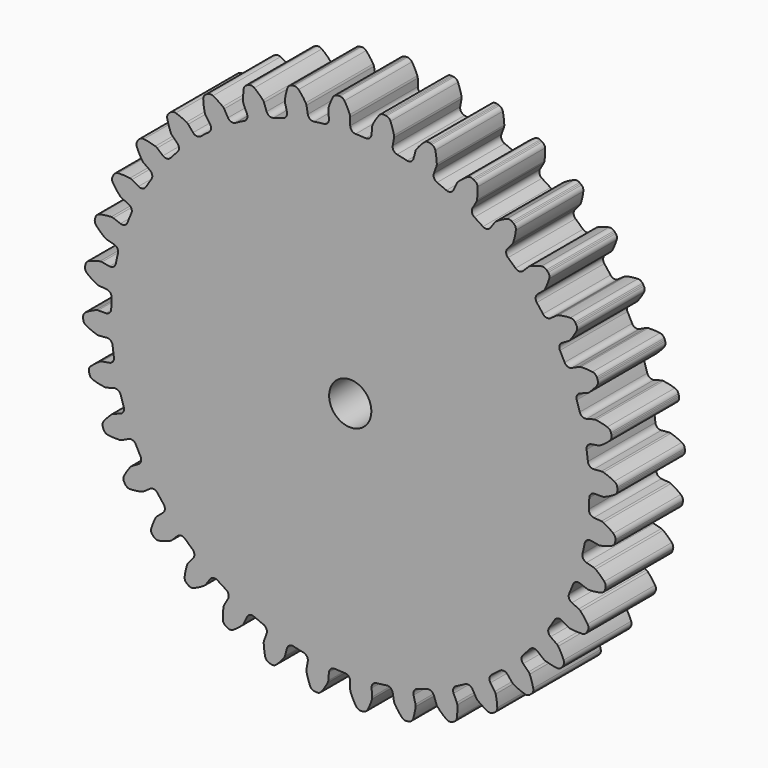
from build123d import *

# Parameters (mm, degrees)
F1_DEPTH = 12.7
F2_R     = 3.175
F3_DEPTH = 12.701


with BuildPart() as f1:
    # F0 (on Front) → F1 (new body)
    with BuildSketch(Plane.XZ):
        with BuildLine():
            ThreePointArc((-3.207294, 36.659542), (-3.391373, 36.064099), (-3.939281, 35.767057))
            ThreePointArc((-3.939281, 35.767057), (-4.696767, 35.675491), (-5.452142, 35.567885))
            ThreePointArc((-5.452142, 35.567885), (-6.058261, 35.712996), (-6.390179, 36.240507))
            Line((-6.390179, 36.240507), (-6.588756, 37.366694))
            ThreePointArc((-6.588756, 37.366694), (-6.631105, 37.519338), (-6.70183, 37.661082))
            ThreePointArc((-6.70183, 37.661082), (-7.204623, 38.387696), (-7.772587, 39.06459))
            ThreePointArc((-7.772587, 39.06459), (-8.1154, 39.287274), (-8.523019, 39.318177))
            Line((-8.523019, 39.318177), (-8.709346, 39.285323))
            Line((-8.709346, 39.285323), (-8.892101, 39.236354))
            ThreePointArc((-8.892101, 39.236354), (-9.248469, 39.036078), (-9.465053, 38.68938))
            ThreePointArc((-9.465053, 38.68938), (-9.693735, 37.835873), (-9.84234, 36.964848))
            ThreePointArc((-9.84234, 36.964848), (-9.846535, 36.806494), (-9.820406, 36.650254))
            Line((-9.820406, 36.650254), (-9.524431, 35.54566))
            ThreePointArc((-9.524431, 35.54566), (-9.602315, 34.927298), (-10.090319, 34.539626))
            ThreePointArc((-10.090319, 34.539626), (-10.820397, 34.317915), (-11.54561, 34.080774))
            ThreePointArc((-11.54561, 34.080774), (-12.167719, 34.118429), (-12.586196, 34.58029))
            Line((-12.586196, 34.58029), (-12.977317, 35.654884))
            ThreePointArc((-12.977317, 35.654884), (-13.045528, 35.797855), (-13.139793, 35.925165))
            ThreePointArc((-13.139793, 35.925165), (-13.761122, 36.553431), (-14.437999, 37.121416))
            ThreePointArc((-14.437999, 37.121416), (-14.814272, 37.281187), (-15.221065, 37.240839))
            Line((-15.221065, 37.240839), (-15.398857, 37.176128))
            Line((-15.398857, 37.176128), (-15.570331, 37.096168))
            ThreePointArc((-15.570331, 37.096168), (-15.886508, 36.837053), (-16.039598, 36.458012))
            ThreePointArc((-16.039598, 36.458012), (-16.116596, 35.577762), (-16.111691, 34.694164))
            ThreePointArc((-16.111691, 34.694164), (-16.088325, 34.537488), (-16.035462, 34.388159))
            Line((-16.035462, 34.388159), (-15.552173, 33.351742))
            ThreePointArc((-15.552173, 33.351742), (-15.521496, 32.72925), (-15.934767, 32.262726))
            ThreePointArc((-15.934767, 32.262726), (-16.615254, 31.917606), (-17.288271, 31.558137))
            ThreePointArc((-17.288271, 31.558137), (-17.907467, 31.487192), (-18.399788, 31.869367))
            Line((-18.399788, 31.869367), (-18.971568, 32.859719))
            ThreePointArc((-18.971568, 32.859719), (-19.06357, 32.988673), (-19.178509, 33.09768))
            ThreePointArc((-19.178509, 33.09768), (-19.899497, 33.608508), (-20.664719, 34.050326))
            ThreePointArc((-20.664719, 34.050326), (-21.06302, 34.142331), (-21.456627, 34.031957))
            Line((-21.456627, 34.031957), (-21.62048, 33.937356))
            Line((-21.62048, 33.937356), (-21.775465, 33.828834))
            ThreePointArc((-21.775465, 33.828834), (-22.041843, 33.518752), (-22.126788, 33.118886))
            ThreePointArc((-22.126788, 33.118886), (-22.049762, 32.238638), (-21.891497, 31.369316))
            ThreePointArc((-21.891497, 31.369316), (-21.841279, 31.219077), (-21.763288, 31.081197))
            Line((-21.763288, 31.081197), (-21.107369, 30.144448))
            ThreePointArc((-21.107369, 30.144448), (-20.969064, 29.536739), (-21.295046, 29.005539))
            ThreePointArc((-21.295046, 29.005539), (-21.905265, 28.547498), (-22.505636, 28.076621))
            ThreePointArc((-22.505636, 28.076621), (-23.103106, 27.899231), (-23.654311, 28.19011))
            Line((-23.654311, 28.19011), (-24.389377, 29.066128))
            ThreePointArc((-24.389377, 29.066128), (-24.502374, 29.177147), (-24.634496, 29.264538))
            ThreePointArc((-24.634496, 29.264538), (-25.433235, 29.642408), (-26.263553, 29.944634))
            ThreePointArc((-26.263553, 29.944634), (-26.671779, 29.966077), (-27.04024, 29.789031))
            Line((-27.04024, 29.789031), (-27.185177, 29.667414))
            Line((-27.185177, 29.667414), (-27.318962, 29.533629))
            ThreePointArc((-27.318962, 29.533629), (-27.527448, 29.182001), (-27.541666, 28.773459))
            ThreePointArc((-27.541666, 28.773459), (-27.312957, 27.91996), (-27.00614, 27.091327))
            ThreePointArc((-27.00614, 27.091327), (-26.930597, 26.952091), (-26.829848, 26.829848))
            Line((-26.829848, 26.829848), (-26.021229, 26.021229))
            ThreePointArc((-26.021229, 26.021229), (-25.779498, 25.44677), (-26.008285, 24.867034))
            ThreePointArc((-26.008285, 24.867034), (-26.529696, 24.309988), (-27.039179, 23.742011))
            ThreePointArc((-27.039179, 23.742011), (-27.596769, 23.463567), (-28.19011, 23.654311))
            Line((-28.19011, 23.654311), (-29.066128, 24.389377))
            ThreePointArc((-29.066128, 24.389377), (-29.196686, 24.479088), (-29.341977, 24.542209))
            ThreePointArc((-29.341977, 24.542209), (-30.194197, 24.775638), (-31.064382, 24.92909))
            ThreePointArc((-31.064382, 24.92909), (-31.47013, 24.879319), (-31.802249, 24.64098))
            Line((-31.802249, 24.64098), (-31.923865, 24.496043))
            Line((-31.923865, 24.496043), (-32.032387, 24.341058))
            ThreePointArc((-32.032387, 24.341058), (-32.176646, 23.958569), (-32.119705, 23.553765))
            ThreePointArc((-32.119705, 23.553765), (-31.746262, 22.752948), (-31.300216, 21.990182))
            ThreePointArc((-31.300216, 21.990182), (-31.201642, 21.866179), (-31.081197, 21.763288))
            Line((-31.081197, 21.763288), (-30.144448, 21.107369))
            ThreePointArc((-30.144448, 21.107369), (-29.806635, 20.583614), (-29.931276, 19.972956))
            ThreePointArc((-29.931276, 19.972956), (-30.348036, 19.333831), (-30.75115, 18.686013))
            ThreePointArc((-30.75115, 18.686013), (-31.251917, 18.314974), (-31.869367, 18.399788))
            Line((-31.869367, 18.399788), (-32.859719, 18.971568))
            ThreePointArc((-32.859719, 18.971568), (-33.003872, 19.037244), (-33.157916, 19.074177))
            ThreePointArc((-33.157916, 19.074177), (-34.037724, 19.156073), (-34.921335, 19.156088))
            ThreePointArc((-34.921335, 19.156088), (-35.312276, 19.036616), (-35.597962, 18.744226))
            Line((-35.597962, 18.744226), (-35.692563, 18.580372))
            Line((-35.692563, 18.580372), (-35.772523, 18.408897))
            ThreePointArc((-35.772523, 18.408897), (-35.848172, 18.007169), (-35.721803, 17.618402))
            ThreePointArc((-35.721803, 17.618402), (-35.214973, 16.894599), (-34.64325, 16.220876))
            ThreePointArc((-34.64325, 16.220876), (-34.524641, 16.115875), (-34.388159, 16.035462))
            Line((-34.388159, 16.035462), (-33.351742, 15.552173))
            ThreePointArc((-33.351742, 15.552173), (-32.928112, 15.095034), (-32.94482, 14.472011))
            ThreePointArc((-32.94482, 14.472011), (-33.244265, 13.770226), (-33.528763, 13.062249))
            ThreePointArc((-33.528763, 13.062249), (-33.957492, 12.60989), (-34.58029, 12.586196))
            Line((-34.58029, 12.586196), (-35.654884, 12.977317))
            ThreePointArc((-35.654884, 12.977317), (-35.808252, 13.016963), (-35.966369, 13.026586))
            ThreePointArc((-35.966369, 13.026586), (-36.847031, 12.954461), (-37.717221, 12.801038))
            ThreePointArc((-37.717221, 12.801038), (-38.081477, 12.615494), (-38.31205, 12.277937))
            Line((-38.31205, 12.277937), (-38.376761, 12.100146))
            Line((-38.376761, 12.100146), (-38.42573, 11.917391))
            ThreePointArc((-38.42573, 11.917391), (-38.43047, 11.50863), (-38.238512, 11.147713))
            ThreePointArc((-38.238512, 11.147713), (-37.613695, 10.522916), (-36.933667, 9.958707))
            ThreePointArc((-36.933667, 9.958707), (-36.798626, 9.875897), (-36.650254, 9.820406))
            Line((-36.650254, 9.820406), (-35.54566, 9.524431))
            ThreePointArc((-35.54566, 9.524431), (-35.049085, 9.1478), (-34.957353, 8.53134))
            ThreePointArc((-34.957353, 8.53134), (-35.130385, 7.788219), (-35.287621, 7.041596))
            ThreePointArc((-35.287621, 7.041596), (-35.631286, 6.521661), (-36.240507, 6.390179))
            Line((-36.240507, 6.390179), (-37.366694, 6.588756))
            ThreePointArc((-37.366694, 6.588756), (-37.524616, 6.601169), (-37.682002, 6.583188))
            ThreePointArc((-37.682002, 6.583188), (-38.536761, 6.359234), (-39.367089, 6.057034))
            ThreePointArc((-39.367089, 6.057034), (-39.693591, 5.811058), (-39.862045, 5.43859))
            Line((-39.862045, 5.43859), (-39.8949, 5.252263))
            Line((-39.8949, 5.252263), (-39.91139, 5.063782))
            ThreePointArc((-39.91139, 5.063782), (-39.845077, 4.660407), (-39.593363, 4.338306))
            ThreePointArc((-39.593363, 4.338306), (-38.869543, 3.8315), (-38.101873, 3.393948))
            ThreePointArc((-38.101873, 3.393948), (-37.954504, 3.335846), (-37.79875, 3.306962))
            Line((-37.79875, 3.306962), (-36.659542, 3.207294))
            ThreePointArc((-36.659542, 3.207294), (-36.10511, 2.922615), (-35.907724, 2.331449))
            ThreePointArc((-35.907724, 2.331449), (-35.949085, 1.569571), (-35.974283, 0.806987))
            ThreePointArc((-35.974283, 0.806987), (-36.222441, 0.235274), (-36.799576, 0))
            Line((-36.799576, 0), (-37.943135, 0))
            ThreePointArc((-37.943135, 0), (-38.100814, -0.015199), (-38.252686, -0.060236))
            ThreePointArc((-38.252686, -0.060236), (-39.05557, -0.429216), (-39.820807, -0.871009))
            ThreePointArc((-39.820807, -0.871009), (-40.099636, -1.169945), (-40.200853, -1.566006))
            Line((-40.200853, -1.566006), (-40.200853, -1.755207))
            Line((-40.200853, -1.755207), (-40.184363, -1.943689))
            ThreePointArc((-40.184363, -1.943689), (-40.049012, -2.32942), (-39.74519, -2.602918))
            ThreePointArc((-39.74519, -2.602918), (-38.94436, -2.976335), (-38.112373, -3.273934))
            ThreePointArc((-38.112373, -3.273934), (-37.957153, -3.305564), (-37.79875, -3.306962))
            Line((-37.79875, -3.306962), (-36.659542, -3.207294))
            ThreePointArc((-36.659542, -3.207294), (-36.064099, -3.391373), (-35.767057, -3.939281))
            ThreePointArc((-35.767057, -3.939281), (-35.675491, -4.696767), (-35.567885, -5.452142))
            ThreePointArc((-35.567885, -5.452142), (-35.712996, -6.058261), (-36.240507, -6.390179))
            Line((-36.240507, -6.390179), (-37.366694, -6.588756))
            ThreePointArc((-37.366694, -6.588756), (-37.519338, -6.631105), (-37.661082, -6.70183))
            ThreePointArc((-37.661082, -6.70183), (-38.387696, -7.204623), (-39.06459, -7.772587))
            ThreePointArc((-39.06459, -7.772587), (-39.287274, -8.1154), (-39.318177, -8.523019))
            Line((-39.318177, -8.523019), (-39.285323, -8.709346))
            Line((-39.285323, -8.709346), (-39.236354, -8.892101))
            ThreePointArc((-39.236354, -8.892101), (-39.036078, -9.248469), (-38.68938, -9.465053))
            ThreePointArc((-38.68938, -9.465053), (-37.835873, -9.693735), (-36.964848, -9.84234))
            ThreePointArc((-36.964848, -9.84234), (-36.806494, -9.846535), (-36.650254, -9.820406))
            Line((-36.650254, -9.820406), (-35.54566, -9.524431))
            ThreePointArc((-35.54566, -9.524431), (-34.927298, -9.602315), (-34.539626, -10.090319))
            ThreePointArc((-34.539626, -10.090319), (-34.317915, -10.820397), (-34.080774, -11.54561))
            ThreePointArc((-34.080774, -11.54561), (-34.118429, -12.167719), (-34.58029, -12.586196))
            Line((-34.58029, -12.586196), (-35.654884, -12.977317))
            ThreePointArc((-35.654884, -12.977317), (-35.797855, -13.045528), (-35.925165, -13.139793))
            ThreePointArc((-35.925165, -13.139793), (-36.553431, -13.761122), (-37.121416, -14.437999))
            ThreePointArc((-37.121416, -14.437999), (-37.281187, -14.814272), (-37.240839, -15.221065))
            Line((-37.240839, -15.221065), (-37.176128, -15.398857))
            Line((-37.176128, -15.398857), (-37.096168, -15.570331))
            ThreePointArc((-37.096168, -15.570331), (-36.837053, -15.886508), (-36.458012, -16.039598))
            ThreePointArc((-36.458012, -16.039598), (-35.577762, -16.116596), (-34.694164, -16.111691))
            ThreePointArc((-34.694164, -16.111691), (-34.537488, -16.088325), (-34.388159, -16.035462))
            Line((-34.388159, -16.035462), (-33.351742, -15.552173))
            ThreePointArc((-33.351742, -15.552173), (-32.72925, -15.521496), (-32.262726, -15.934767))
            ThreePointArc((-32.262726, -15.934767), (-31.917606, -16.615254), (-31.558137, -17.288271))
            ThreePointArc((-31.558137, -17.288271), (-31.487192, -17.907467), (-31.869367, -18.399788))
            Line((-31.869367, -18.399788), (-32.859719, -18.971568))
            ThreePointArc((-32.859719, -18.971568), (-32.988673, -19.06357), (-33.09768, -19.178509))
            ThreePointArc((-33.09768, -19.178509), (-33.608508, -19.899497), (-34.050326, -20.664719))
            ThreePointArc((-34.050326, -20.664719), (-34.142331, -21.06302), (-34.031957, -21.456627))
            Line((-34.031957, -21.456627), (-33.937356, -21.62048))
            Line((-33.937356, -21.62048), (-33.828834, -21.775465))
            ThreePointArc((-33.828834, -21.775465), (-33.518752, -22.041843), (-33.118886, -22.126788))
            ThreePointArc((-33.118886, -22.126788), (-32.238638, -22.049762), (-31.369316, -21.891497))
            ThreePointArc((-31.369316, -21.891497), (-31.219077, -21.841279), (-31.081197, -21.763288))
            Line((-31.081197, -21.763288), (-30.144448, -21.107369))
            ThreePointArc((-30.144448, -21.107369), (-29.536739, -20.969064), (-29.005539, -21.295046))
            ThreePointArc((-29.005539, -21.295046), (-28.547498, -21.905265), (-28.076621, -22.505636))
            ThreePointArc((-28.076621, -22.505636), (-27.899231, -23.103106), (-28.19011, -23.654311))
            Line((-28.19011, -23.654311), (-29.066128, -24.389377))
            ThreePointArc((-29.066128, -24.389377), (-29.177147, -24.502374), (-29.264538, -24.634496))
            ThreePointArc((-29.264538, -24.634496), (-29.642408, -25.433235), (-29.944634, -26.263553))
            ThreePointArc((-29.944634, -26.263553), (-29.966077, -26.671779), (-29.789031, -27.04024))
            Line((-29.789031, -27.04024), (-29.667414, -27.185177))
            Line((-29.667414, -27.185177), (-29.533629, -27.318962))
            ThreePointArc((-29.533629, -27.318962), (-29.182001, -27.527448), (-28.773459, -27.541666))
            ThreePointArc((-28.773459, -27.541666), (-27.91996, -27.312957), (-27.091327, -27.00614))
            ThreePointArc((-27.091327, -27.00614), (-26.952091, -26.930597), (-26.829848, -26.829848))
            Line((-26.829848, -26.829848), (-26.021229, -26.021229))
            ThreePointArc((-26.021229, -26.021229), (-25.44677, -25.779498), (-24.867034, -26.008285))
            ThreePointArc((-24.867034, -26.008285), (-24.309988, -26.529696), (-23.742011, -27.039179))
            ThreePointArc((-23.742011, -27.039179), (-23.463567, -27.596769), (-23.654311, -28.19011))
            Line((-23.654311, -28.19011), (-24.389377, -29.066128))
            ThreePointArc((-24.389377, -29.066128), (-24.479088, -29.196686), (-24.542209, -29.341977))
            ThreePointArc((-24.542209, -29.341977), (-24.775638, -30.194197), (-24.92909, -31.064382))
            ThreePointArc((-24.92909, -31.064382), (-24.879319, -31.47013), (-24.64098, -31.802249))
            Line((-24.64098, -31.802249), (-24.496043, -31.923865))
            Line((-24.496043, -31.923865), (-24.341058, -32.032387))
            ThreePointArc((-24.341058, -32.032387), (-23.958569, -32.176646), (-23.553765, -32.119705))
            ThreePointArc((-23.553765, -32.119705), (-22.752948, -31.746262), (-21.990182, -31.300216))
            ThreePointArc((-21.990182, -31.300216), (-21.866179, -31.201642), (-21.763288, -31.081197))
            Line((-21.763288, -31.081197), (-21.107369, -30.144448))
            ThreePointArc((-21.107369, -30.144448), (-20.583614, -29.806635), (-19.972956, -29.931276))
            ThreePointArc((-19.972956, -29.931276), (-19.333831, -30.348036), (-18.686013, -30.75115))
            ThreePointArc((-18.686013, -30.75115), (-18.314974, -31.251917), (-18.399788, -31.869367))
            Line((-18.399788, -31.869367), (-18.971568, -32.859719))
            ThreePointArc((-18.971568, -32.859719), (-19.037244, -33.003872), (-19.074177, -33.157916))
            ThreePointArc((-19.074177, -33.157916), (-19.156073, -34.037724), (-19.156088, -34.921335))
            ThreePointArc((-19.156088, -34.921335), (-19.036616, -35.312276), (-18.744226, -35.597962))
            Line((-18.744226, -35.597962), (-18.580372, -35.692563))
            Line((-18.580372, -35.692563), (-18.408897, -35.772523))
            ThreePointArc((-18.408897, -35.772523), (-18.007169, -35.848172), (-17.618402, -35.721803))
            ThreePointArc((-17.618402, -35.721803), (-16.894599, -35.214973), (-16.220876, -34.64325))
            ThreePointArc((-16.220876, -34.64325), (-16.115875, -34.524641), (-16.035462, -34.388159))
            Line((-16.035462, -34.388159), (-15.552173, -33.351742))
            ThreePointArc((-15.552173, -33.351742), (-15.095034, -32.928112), (-14.472011, -32.94482))
            ThreePointArc((-14.472011, -32.94482), (-13.770226, -33.244265), (-13.062249, -33.528763))
            ThreePointArc((-13.062249, -33.528763), (-12.60989, -33.957492), (-12.586196, -34.58029))
            Line((-12.586196, -34.58029), (-12.977317, -35.654884))
            ThreePointArc((-12.977317, -35.654884), (-13.016963, -35.808252), (-13.026586, -35.966369))
            ThreePointArc((-13.026586, -35.966369), (-12.954461, -36.847031), (-12.801038, -37.717221))
            ThreePointArc((-12.801038, -37.717221), (-12.615494, -38.081477), (-12.277937, -38.31205))
            Line((-12.277937, -38.31205), (-12.100146, -38.376761))
            Line((-12.100146, -38.376761), (-11.917391, -38.42573))
            ThreePointArc((-11.917391, -38.42573), (-11.50863, -38.43047), (-11.147713, -38.238512))
            ThreePointArc((-11.147713, -38.238512), (-10.522916, -37.613695), (-9.958707, -36.933667))
            ThreePointArc((-9.958707, -36.933667), (-9.875897, -36.798626), (-9.820406, -36.650254))
            Line((-9.820406, -36.650254), (-9.524431, -35.54566))
            ThreePointArc((-9.524431, -35.54566), (-9.1478, -35.049085), (-8.53134, -34.957353))
            ThreePointArc((-8.53134, -34.957353), (-7.788219, -35.130385), (-7.041596, -35.287621))
            ThreePointArc((-7.041596, -35.287621), (-6.521661, -35.631286), (-6.390179, -36.240507))
            Line((-6.390179, -36.240507), (-6.588756, -37.366694))
            ThreePointArc((-6.588756, -37.366694), (-6.601169, -37.524616), (-6.583188, -37.682002))
            ThreePointArc((-6.583188, -37.682002), (-6.359234, -38.536761), (-6.057034, -39.367089))
            ThreePointArc((-6.057034, -39.367089), (-5.811058, -39.693591), (-5.43859, -39.862045))
            Line((-5.43859, -39.862045), (-5.252263, -39.8949))
            Line((-5.252263, -39.8949), (-5.063782, -39.91139))
            ThreePointArc((-5.063782, -39.91139), (-4.660407, -39.845077), (-4.338306, -39.593363))
            ThreePointArc((-4.338306, -39.593363), (-3.8315, -38.869543), (-3.393948, -38.101873))
            ThreePointArc((-3.393948, -38.101873), (-3.335846, -37.954504), (-3.306962, -37.79875))
            Line((-3.306962, -37.79875), (-3.207294, -36.659542))
            ThreePointArc((-3.207294, -36.659542), (-2.922615, -36.10511), (-2.331449, -35.907724))
            ThreePointArc((-2.331449, -35.907724), (-1.569571, -35.949085), (-0.806987, -35.974283))
            ThreePointArc((-0.806987, -35.974283), (-0.235274, -36.222441), (0, -36.799576))
            Line((0, -36.799576), (0, -37.943135))
            ThreePointArc((0, -37.943135), (0.015199, -38.100814), (0.060236, -38.252686))
            ThreePointArc((0.060236, -38.252686), (0.429216, -39.05557), (0.871009, -39.820807))
            ThreePointArc((0.871009, -39.820807), (1.169945, -40.099636), (1.566006, -40.200853))
            Line((1.566006, -40.200853), (1.755207, -40.200853))
            Line((1.755207, -40.200853), (1.943689, -40.184363))
            ThreePointArc((1.943689, -40.184363), (2.32942, -40.049012), (2.602918, -39.74519))
            ThreePointArc((2.602918, -39.74519), (2.976335, -38.94436), (3.273934, -38.112373))
            ThreePointArc((3.273934, -38.112373), (3.305564, -37.957153), (3.306962, -37.79875))
            Line((3.306962, -37.79875), (3.207294, -36.659542))
            ThreePointArc((3.207294, -36.659542), (3.391373, -36.064099), (3.939281, -35.767057))
            ThreePointArc((3.939281, -35.767057), (4.696767, -35.675491), (5.452142, -35.567885))
            ThreePointArc((5.452142, -35.567885), (6.058261, -35.712996), (6.390179, -36.240507))
            Line((6.390179, -36.240507), (6.588756, -37.366694))
            ThreePointArc((6.588756, -37.366694), (6.631105, -37.519338), (6.70183, -37.661082))
            ThreePointArc((6.70183, -37.661082), (7.204623, -38.387696), (7.772587, -39.06459))
            ThreePointArc((7.772587, -39.06459), (8.1154, -39.287274), (8.523019, -39.318177))
            Line((8.523019, -39.318177), (8.709346, -39.285323))
            Line((8.709346, -39.285323), (8.892101, -39.236354))
            ThreePointArc((8.892101, -39.236354), (9.248469, -39.036078), (9.465053, -38.68938))
            ThreePointArc((9.465053, -38.68938), (9.693735, -37.835873), (9.84234, -36.964848))
            ThreePointArc((9.84234, -36.964848), (9.846535, -36.806494), (9.820406, -36.650254))
            Line((9.820406, -36.650254), (9.524431, -35.54566))
            ThreePointArc((9.524431, -35.54566), (9.602315, -34.927298), (10.090319, -34.539626))
            ThreePointArc((10.090319, -34.539626), (10.820397, -34.317915), (11.54561, -34.080774))
            ThreePointArc((11.54561, -34.080774), (12.167719, -34.118429), (12.586196, -34.58029))
            Line((12.586196, -34.58029), (12.977317, -35.654884))
            ThreePointArc((12.977317, -35.654884), (13.045528, -35.797855), (13.139793, -35.925165))
            ThreePointArc((13.139793, -35.925165), (13.761122, -36.553431), (14.437999, -37.121416))
            ThreePointArc((14.437999, -37.121416), (14.814272, -37.281187), (15.221065, -37.240839))
            Line((15.221065, -37.240839), (15.398857, -37.176128))
            Line((15.398857, -37.176128), (15.570331, -37.096168))
            ThreePointArc((15.570331, -37.096168), (15.886508, -36.837053), (16.039598, -36.458012))
            ThreePointArc((16.039598, -36.458012), (16.116596, -35.577762), (16.111691, -34.694164))
            ThreePointArc((16.111691, -34.694164), (16.088325, -34.537488), (16.035462, -34.388159))
            Line((16.035462, -34.388159), (15.552173, -33.351742))
            ThreePointArc((15.552173, -33.351742), (15.521496, -32.72925), (15.934767, -32.262726))
            ThreePointArc((15.934767, -32.262726), (16.615254, -31.917606), (17.288271, -31.558137))
            ThreePointArc((17.288271, -31.558137), (17.907467, -31.487192), (18.399788, -31.869367))
            Line((18.399788, -31.869367), (18.971568, -32.859719))
            ThreePointArc((18.971568, -32.859719), (19.06357, -32.988673), (19.178509, -33.09768))
            ThreePointArc((19.178509, -33.09768), (19.899497, -33.608508), (20.664719, -34.050326))
            ThreePointArc((20.664719, -34.050326), (21.06302, -34.142331), (21.456627, -34.031957))
            Line((21.456627, -34.031957), (21.62048, -33.937356))
            Line((21.62048, -33.937356), (21.775465, -33.828834))
            ThreePointArc((21.775465, -33.828834), (22.041843, -33.518752), (22.126788, -33.118886))
            ThreePointArc((22.126788, -33.118886), (22.049762, -32.238638), (21.891497, -31.369316))
            ThreePointArc((21.891497, -31.369316), (21.841279, -31.219077), (21.763288, -31.081197))
            Line((21.763288, -31.081197), (21.107369, -30.144448))
            ThreePointArc((21.107369, -30.144448), (20.969064, -29.536739), (21.295046, -29.005539))
            ThreePointArc((21.295046, -29.005539), (21.905265, -28.547498), (22.505636, -28.076621))
            ThreePointArc((22.505636, -28.076621), (23.103106, -27.899231), (23.654311, -28.19011))
            Line((23.654311, -28.19011), (24.389377, -29.066128))
            ThreePointArc((24.389377, -29.066128), (24.502374, -29.177147), (24.634496, -29.264538))
            ThreePointArc((24.634496, -29.264538), (25.433235, -29.642408), (26.263553, -29.944634))
            ThreePointArc((26.263553, -29.944634), (26.671779, -29.966077), (27.04024, -29.789031))
            Line((27.04024, -29.789031), (27.185177, -29.667414))
            Line((27.185177, -29.667414), (27.318962, -29.533629))
            ThreePointArc((27.318962, -29.533629), (27.527448, -29.182001), (27.541666, -28.773459))
            ThreePointArc((27.541666, -28.773459), (27.312957, -27.91996), (27.00614, -27.091327))
            ThreePointArc((27.00614, -27.091327), (26.930597, -26.952091), (26.829848, -26.829848))
            Line((26.829848, -26.829848), (26.021229, -26.021229))
            ThreePointArc((26.021229, -26.021229), (25.779498, -25.44677), (26.008285, -24.867034))
            ThreePointArc((26.008285, -24.867034), (26.529696, -24.309988), (27.039179, -23.742011))
            ThreePointArc((27.039179, -23.742011), (27.596769, -23.463567), (28.19011, -23.654311))
            Line((28.19011, -23.654311), (29.066128, -24.389377))
            ThreePointArc((29.066128, -24.389377), (29.196686, -24.479088), (29.341977, -24.542209))
            ThreePointArc((29.341977, -24.542209), (30.194197, -24.775638), (31.064382, -24.92909))
            ThreePointArc((31.064382, -24.92909), (31.47013, -24.879319), (31.802249, -24.64098))
            Line((31.802249, -24.64098), (31.923865, -24.496043))
            Line((31.923865, -24.496043), (32.032387, -24.341058))
            ThreePointArc((32.032387, -24.341058), (32.176646, -23.958569), (32.119705, -23.553765))
            ThreePointArc((32.119705, -23.553765), (31.746262, -22.752948), (31.300216, -21.990182))
            ThreePointArc((31.300216, -21.990182), (31.201642, -21.866179), (31.081197, -21.763288))
            Line((31.081197, -21.763288), (30.144448, -21.107369))
            ThreePointArc((30.144448, -21.107369), (29.806635, -20.583614), (29.931276, -19.972956))
            ThreePointArc((29.931276, -19.972956), (30.348036, -19.333831), (30.75115, -18.686013))
            ThreePointArc((30.75115, -18.686013), (31.251917, -18.314974), (31.869367, -18.399788))
            Line((31.869367, -18.399788), (32.859719, -18.971568))
            ThreePointArc((32.859719, -18.971568), (33.003872, -19.037244), (33.157916, -19.074177))
            ThreePointArc((33.157916, -19.074177), (34.037724, -19.156073), (34.921335, -19.156088))
            ThreePointArc((34.921335, -19.156088), (35.312276, -19.036616), (35.597962, -18.744226))
            Line((35.597962, -18.744226), (35.692563, -18.580372))
            Line((35.692563, -18.580372), (35.772523, -18.408897))
            ThreePointArc((35.772523, -18.408897), (35.848172, -18.007169), (35.721803, -17.618402))
            ThreePointArc((35.721803, -17.618402), (35.214973, -16.894599), (34.64325, -16.220876))
            ThreePointArc((34.64325, -16.220876), (34.524641, -16.115875), (34.388159, -16.035462))
            Line((34.388159, -16.035462), (33.351742, -15.552173))
            ThreePointArc((33.351742, -15.552173), (32.928112, -15.095034), (32.94482, -14.472011))
            ThreePointArc((32.94482, -14.472011), (33.244265, -13.770226), (33.528763, -13.062249))
            ThreePointArc((33.528763, -13.062249), (33.957492, -12.60989), (34.58029, -12.586196))
            Line((34.58029, -12.586196), (35.654884, -12.977317))
            ThreePointArc((35.654884, -12.977317), (35.808252, -13.016963), (35.966369, -13.026586))
            ThreePointArc((35.966369, -13.026586), (36.847031, -12.954461), (37.717221, -12.801038))
            ThreePointArc((37.717221, -12.801038), (38.081477, -12.615494), (38.31205, -12.277937))
            Line((38.31205, -12.277937), (38.376761, -12.100146))
            Line((38.376761, -12.100146), (38.42573, -11.917391))
            ThreePointArc((38.42573, -11.917391), (38.43047, -11.50863), (38.238512, -11.147713))
            ThreePointArc((38.238512, -11.147713), (37.613695, -10.522916), (36.933667, -9.958707))
            ThreePointArc((36.933667, -9.958707), (36.798626, -9.875897), (36.650254, -9.820406))
            Line((36.650254, -9.820406), (35.54566, -9.524431))
            ThreePointArc((35.54566, -9.524431), (35.049085, -9.1478), (34.957353, -8.53134))
            ThreePointArc((34.957353, -8.53134), (35.130385, -7.788219), (35.287621, -7.041596))
            ThreePointArc((35.287621, -7.041596), (35.631286, -6.521661), (36.240507, -6.390179))
            Line((36.240507, -6.390179), (37.366694, -6.588756))
            ThreePointArc((37.366694, -6.588756), (37.524616, -6.601169), (37.682002, -6.583188))
            ThreePointArc((37.682002, -6.583188), (38.536761, -6.359234), (39.367089, -6.057034))
            ThreePointArc((39.367089, -6.057034), (39.693591, -5.811058), (39.862045, -5.43859))
            Line((39.862045, -5.43859), (39.8949, -5.252263))
            Line((39.8949, -5.252263), (39.91139, -5.063782))
            ThreePointArc((39.91139, -5.063782), (39.845077, -4.660407), (39.593363, -4.338306))
            ThreePointArc((39.593363, -4.338306), (38.869543, -3.8315), (38.101873, -3.393948))
            ThreePointArc((38.101873, -3.393948), (37.954504, -3.335846), (37.79875, -3.306962))
            Line((37.79875, -3.306962), (36.659542, -3.207294))
            ThreePointArc((36.659542, -3.207294), (36.10511, -2.922615), (35.907724, -2.331449))
            ThreePointArc((35.907724, -2.331449), (35.949085, -1.569571), (35.974283, -0.806987))
            ThreePointArc((35.974283, -0.806987), (36.222441, -0.235274), (36.799576, 0))
            Line((36.799576, 0), (37.943135, 0))
            ThreePointArc((37.943135, 0), (38.100814, 0.015199), (38.252686, 0.060236))
            ThreePointArc((38.252686, 0.060236), (39.05557, 0.429216), (39.820807, 0.871009))
            ThreePointArc((39.820807, 0.871009), (40.099636, 1.169945), (40.200853, 1.566006))
            Line((40.200853, 1.566006), (40.200853, 1.755207))
            Line((40.200853, 1.755207), (40.184363, 1.943689))
            ThreePointArc((40.184363, 1.943689), (40.049012, 2.32942), (39.74519, 2.602918))
            ThreePointArc((39.74519, 2.602918), (38.94436, 2.976335), (38.112373, 3.273934))
            ThreePointArc((38.112373, 3.273934), (37.957153, 3.305564), (37.79875, 3.306962))
            Line((37.79875, 3.306962), (36.659542, 3.207294))
            ThreePointArc((36.659542, 3.207294), (36.064099, 3.391373), (35.767057, 3.939281))
            ThreePointArc((35.767057, 3.939281), (35.675491, 4.696767), (35.567885, 5.452142))
            ThreePointArc((35.567885, 5.452142), (35.712996, 6.058261), (36.240507, 6.390179))
            Line((36.240507, 6.390179), (37.366694, 6.588756))
            ThreePointArc((37.366694, 6.588756), (37.519338, 6.631105), (37.661082, 6.70183))
            ThreePointArc((37.661082, 6.70183), (38.387696, 7.204623), (39.06459, 7.772587))
            ThreePointArc((39.06459, 7.772587), (39.287274, 8.1154), (39.318177, 8.523019))
            Line((39.318177, 8.523019), (39.285323, 8.709346))
            Line((39.285323, 8.709346), (39.236354, 8.892101))
            ThreePointArc((39.236354, 8.892101), (39.036078, 9.248469), (38.68938, 9.465053))
            ThreePointArc((38.68938, 9.465053), (37.835873, 9.693735), (36.964848, 9.84234))
            ThreePointArc((36.964848, 9.84234), (36.806494, 9.846535), (36.650254, 9.820406))
            Line((36.650254, 9.820406), (35.54566, 9.524431))
            ThreePointArc((35.54566, 9.524431), (34.927298, 9.602315), (34.539626, 10.090319))
            ThreePointArc((34.539626, 10.090319), (34.317915, 10.820397), (34.080774, 11.54561))
            ThreePointArc((34.080774, 11.54561), (34.118429, 12.167719), (34.58029, 12.586196))
            Line((34.58029, 12.586196), (35.654884, 12.977317))
            ThreePointArc((35.654884, 12.977317), (35.797855, 13.045528), (35.925165, 13.139793))
            ThreePointArc((35.925165, 13.139793), (36.553431, 13.761122), (37.121416, 14.437999))
            ThreePointArc((37.121416, 14.437999), (37.281187, 14.814272), (37.240839, 15.221065))
            Line((37.240839, 15.221065), (37.176128, 15.398857))
            Line((37.176128, 15.398857), (37.096168, 15.570331))
            ThreePointArc((37.096168, 15.570331), (36.837053, 15.886508), (36.458012, 16.039598))
            ThreePointArc((36.458012, 16.039598), (35.577762, 16.116596), (34.694164, 16.111691))
            ThreePointArc((34.694164, 16.111691), (34.537488, 16.088325), (34.388159, 16.035462))
            Line((34.388159, 16.035462), (33.351742, 15.552173))
            ThreePointArc((33.351742, 15.552173), (32.72925, 15.521496), (32.262726, 15.934767))
            ThreePointArc((32.262726, 15.934767), (31.917606, 16.615254), (31.558137, 17.288271))
            ThreePointArc((31.558137, 17.288271), (31.487192, 17.907467), (31.869367, 18.399788))
            Line((31.869367, 18.399788), (32.859719, 18.971568))
            ThreePointArc((32.859719, 18.971568), (32.988673, 19.06357), (33.09768, 19.178509))
            ThreePointArc((33.09768, 19.178509), (33.608508, 19.899497), (34.050326, 20.664719))
            ThreePointArc((34.050326, 20.664719), (34.142331, 21.06302), (34.031957, 21.456627))
            Line((34.031957, 21.456627), (33.937356, 21.62048))
            Line((33.937356, 21.62048), (33.828834, 21.775465))
            ThreePointArc((33.828834, 21.775465), (33.518752, 22.041843), (33.118886, 22.126788))
            ThreePointArc((33.118886, 22.126788), (32.238638, 22.049762), (31.369316, 21.891497))
            ThreePointArc((31.369316, 21.891497), (31.219077, 21.841279), (31.081197, 21.763288))
            Line((31.081197, 21.763288), (30.144448, 21.107369))
            ThreePointArc((30.144448, 21.107369), (29.536739, 20.969064), (29.005539, 21.295046))
            ThreePointArc((29.005539, 21.295046), (28.547498, 21.905265), (28.076621, 22.505636))
            ThreePointArc((28.076621, 22.505636), (27.899231, 23.103106), (28.19011, 23.654311))
            Line((28.19011, 23.654311), (29.066128, 24.389377))
            ThreePointArc((29.066128, 24.389377), (29.177147, 24.502374), (29.264538, 24.634496))
            ThreePointArc((29.264538, 24.634496), (29.642408, 25.433235), (29.944634, 26.263553))
            ThreePointArc((29.944634, 26.263553), (29.966077, 26.671779), (29.789031, 27.04024))
            Line((29.789031, 27.04024), (29.667414, 27.185177))
            Line((29.667414, 27.185177), (29.533629, 27.318962))
            ThreePointArc((29.533629, 27.318962), (29.182001, 27.527448), (28.773459, 27.541666))
            ThreePointArc((28.773459, 27.541666), (27.91996, 27.312957), (27.091327, 27.00614))
            ThreePointArc((27.091327, 27.00614), (26.952091, 26.930597), (26.829848, 26.829848))
            Line((26.829848, 26.829848), (26.021229, 26.021229))
            ThreePointArc((26.021229, 26.021229), (25.44677, 25.779498), (24.867034, 26.008285))
            ThreePointArc((24.867034, 26.008285), (24.309988, 26.529696), (23.742011, 27.039179))
            ThreePointArc((23.742011, 27.039179), (23.463567, 27.596769), (23.654311, 28.19011))
            Line((23.654311, 28.19011), (24.389377, 29.066128))
            ThreePointArc((24.389377, 29.066128), (24.479088, 29.196686), (24.542209, 29.341977))
            ThreePointArc((24.542209, 29.341977), (24.775638, 30.194197), (24.92909, 31.064382))
            ThreePointArc((24.92909, 31.064382), (24.879319, 31.47013), (24.64098, 31.802249))
            Line((24.64098, 31.802249), (24.496043, 31.923865))
            Line((24.496043, 31.923865), (24.341058, 32.032387))
            ThreePointArc((24.341058, 32.032387), (23.958569, 32.176646), (23.553765, 32.119705))
            ThreePointArc((23.553765, 32.119705), (22.752948, 31.746262), (21.990182, 31.300216))
            ThreePointArc((21.990182, 31.300216), (21.866179, 31.201642), (21.763288, 31.081197))
            Line((21.763288, 31.081197), (21.107369, 30.144448))
            ThreePointArc((21.107369, 30.144448), (20.583614, 29.806635), (19.972956, 29.931276))
            ThreePointArc((19.972956, 29.931276), (19.333831, 30.348036), (18.686013, 30.75115))
            ThreePointArc((18.686013, 30.75115), (18.314974, 31.251917), (18.399788, 31.869367))
            Line((18.399788, 31.869367), (18.971568, 32.859719))
            ThreePointArc((18.971568, 32.859719), (19.037244, 33.003872), (19.074177, 33.157916))
            ThreePointArc((19.074177, 33.157916), (19.156073, 34.037724), (19.156088, 34.921335))
            ThreePointArc((19.156088, 34.921335), (19.036616, 35.312276), (18.744226, 35.597962))
            Line((18.744226, 35.597962), (18.580372, 35.692563))
            Line((18.580372, 35.692563), (18.408897, 35.772523))
            ThreePointArc((18.408897, 35.772523), (18.007169, 35.848172), (17.618402, 35.721803))
            ThreePointArc((17.618402, 35.721803), (16.894599, 35.214973), (16.220876, 34.64325))
            ThreePointArc((16.220876, 34.64325), (16.115875, 34.524641), (16.035462, 34.388159))
            Line((16.035462, 34.388159), (15.552173, 33.351742))
            ThreePointArc((15.552173, 33.351742), (15.095034, 32.928112), (14.472011, 32.94482))
            ThreePointArc((14.472011, 32.94482), (13.770226, 33.244265), (13.062249, 33.528763))
            ThreePointArc((13.062249, 33.528763), (12.60989, 33.957492), (12.586196, 34.58029))
            Line((12.586196, 34.58029), (12.977317, 35.654884))
            ThreePointArc((12.977317, 35.654884), (13.016963, 35.808252), (13.026586, 35.966369))
            ThreePointArc((13.026586, 35.966369), (12.954461, 36.847031), (12.801038, 37.717221))
            ThreePointArc((12.801038, 37.717221), (12.615494, 38.081477), (12.277937, 38.31205))
            Line((12.277937, 38.31205), (12.100146, 38.376761))
            Line((12.100146, 38.376761), (11.917391, 38.42573))
            ThreePointArc((11.917391, 38.42573), (11.50863, 38.43047), (11.147713, 38.238512))
            ThreePointArc((11.147713, 38.238512), (10.522916, 37.613695), (9.958707, 36.933667))
            ThreePointArc((9.958707, 36.933667), (9.875897, 36.798626), (9.820406, 36.650254))
            Line((9.820406, 36.650254), (9.524431, 35.54566))
            ThreePointArc((9.524431, 35.54566), (9.1478, 35.049085), (8.53134, 34.957353))
            ThreePointArc((8.53134, 34.957353), (7.788219, 35.130385), (7.041596, 35.287621))
            ThreePointArc((7.041596, 35.287621), (6.521661, 35.631286), (6.390179, 36.240507))
            Line((6.390179, 36.240507), (6.588756, 37.366694))
            ThreePointArc((6.588756, 37.366694), (6.601169, 37.524616), (6.583188, 37.682002))
            ThreePointArc((6.583188, 37.682002), (6.359234, 38.536761), (6.057034, 39.367089))
            ThreePointArc((6.057034, 39.367089), (5.811058, 39.693591), (5.43859, 39.862045))
            Line((5.43859, 39.862045), (5.252263, 39.8949))
            Line((5.252263, 39.8949), (5.063782, 39.91139))
            ThreePointArc((5.063782, 39.91139), (4.660407, 39.845077), (4.338306, 39.593363))
            ThreePointArc((4.338306, 39.593363), (3.8315, 38.869543), (3.393948, 38.101873))
            ThreePointArc((3.393948, 38.101873), (3.335846, 37.954504), (3.306962, 37.79875))
            Line((3.306962, 37.79875), (3.207294, 36.659542))
            ThreePointArc((3.207294, 36.659542), (2.922615, 36.10511), (2.331449, 35.907724))
            ThreePointArc((2.331449, 35.907724), (1.569571, 35.949085), (0.806987, 35.974283))
            ThreePointArc((0.806987, 35.974283), (0.235274, 36.222441), (0, 36.799576))
            Line((0, 36.799576), (0, 37.943135))
            ThreePointArc((0, 37.943135), (-0.015199, 38.100814), (-0.060236, 38.252686))
            ThreePointArc((-0.060236, 38.252686), (-0.429216, 39.05557), (-0.871009, 39.820807))
            ThreePointArc((-0.871009, 39.820807), (-1.169945, 40.099636), (-1.566006, 40.200853))
            Line((-1.566006, 40.200853), (-1.755207, 40.200853))
            Line((-1.755207, 40.200853), (-1.943689, 40.184363))
            ThreePointArc((-1.943689, 40.184363), (-2.32942, 40.049012), (-2.602918, 39.74519))
            ThreePointArc((-2.602918, 39.74519), (-2.976335, 38.94436), (-3.273934, 38.112373))
            ThreePointArc((-3.273934, 38.112373), (-3.305564, 37.957153), (-3.306962, 37.79875))
            Line((-3.306962, 37.79875), (-3.207294, 36.659542))
        make_face()
    extrude(amount=F1_DEPTH)

    # F2 (on face) → F3 (cut, through all)
    with BuildSketch(Plane.XZ.offset(12.7)):
        Circle(F2_R)
    extrude(amount=-F3_DEPTH, mode=Mode.SUBTRACT)


solid = f1.part
